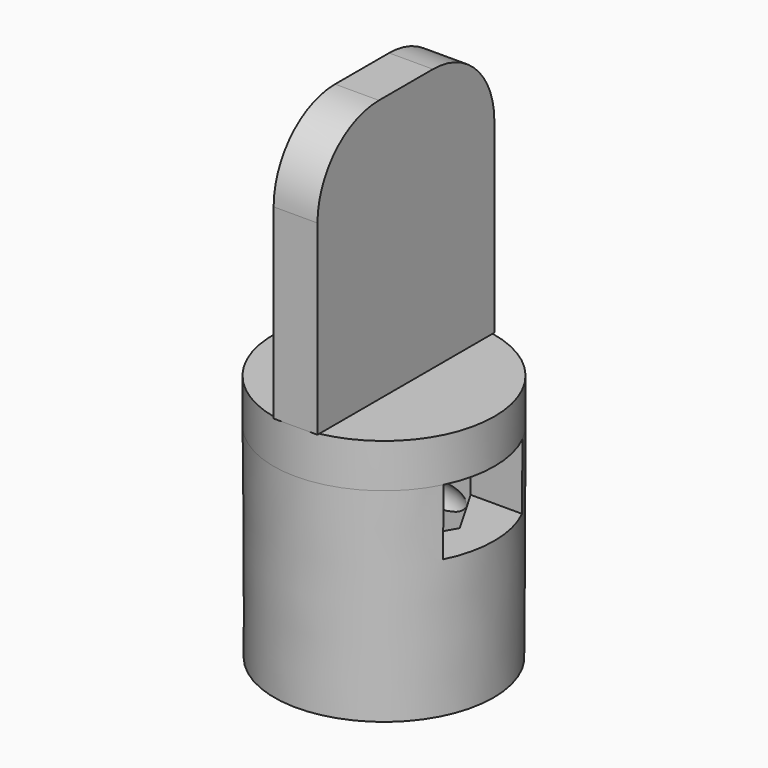
from build123d import *

# Parameters (mm, degrees)
F0_R      = 5
F1_DEPTH  = 9.3
F1_TAPER  = -0.25
F3_DEPTH  = 9.3
F3_TAPER  = 1
F4_R      = 0.75
F6_W      = 4.5
F6_H      = 3
F7_DEPTH  = 7.2
F8_R      = 5.0405791626
F9_DEPTH  = 2
F10_W     = 10.0811583253
F10_H     = 12
F11_DEPTH = 1
F12_R     = 3.5


with BuildPart() as f1:
    # F0 (on Top) → F1 (new body)
    with BuildSketch(Plane.XY):
        Circle(F0_R)
        Polygon((1.7897858345, 3.1), (3.579571669, 0), (1.7897858345, -3.1), (-1.7897858345, -3.1), (-3.579571669, 0), (-1.7897858345, 3.1), align=None, mode=Mode.SUBTRACT)
        Polygon((1.7897858345, -3.1), (3.579571669, 0), (1.7897858345, 3.1), (-1.7897858345, 3.1), (-3.579571669, 0), (-1.7897858345, -3.1), align=None)
    extrude(amount=F1_DEPTH, taper=F1_TAPER)

    # F2 (on Top) → F3 (cut)
    with BuildSketch(Plane.XY):
        Polygon((1.7897858345, -3.1), (3.579571669, 0), (1.7897858345, 3.1), (-1.7897858345, 3.1), (-3.579571669, 0), (-1.7897858345, -3.1), align=None)
    extrude(amount=F3_DEPTH, taper=F3_TAPER, mode=Mode.SUBTRACT)

    # F4 (on Right) → F5 (revolve, cut)
    with BuildSketch(Plane.YZ):
        with Locations((-2.5457434822, 5.35)):
            Circle(F4_R)
    revolve(axis=Axis((0, 0, 4.7348800581), (0, 0, -1)), mode=Mode.SUBTRACT)

    # F6 (on Right) → F7 (cut, symmetric)
    with BuildSketch(Plane.YZ):
        with Locations((0, 7.8)):
            Rectangle(F6_W, F6_H)
    extrude(amount=F7_DEPTH, both=True, mode=Mode.SUBTRACT)

    # F8 (on face) → F9 (join)
    with BuildSketch(Plane.XY.offset(9.3)):
        Circle(F8_R)
    extrude(amount=F9_DEPTH)

    # F10 (on Right) → F11 (join, symmetric)
    with BuildSketch(Plane.YZ):
        with Locations((0, 17.3)):
            Rectangle(F10_W, F10_H)
    extrude(amount=F11_DEPTH, both=True)

    # F12
    f12_edges = [f1.edges().sort_by_distance(p)[0] for p in [
        (0, -5.040579, 23.3),
        (0, 5.040579, 23.3),
    ]]
    fillet(f12_edges, radius=F12_R)


solid = f1.part
